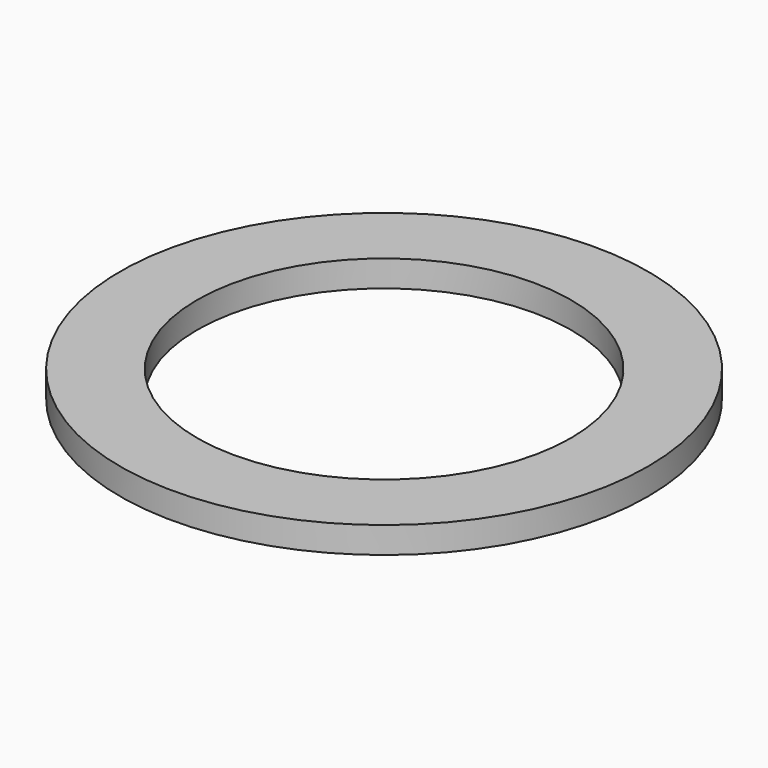
from build123d import *

# Parameters (mm, degrees)
SKETCH_R   = 12
SKETCH_R_2 = 8.5
PAD_DEPTH  = 1.2


with BuildPart() as part:
    # Sketch → Pad (new body)
    with BuildSketch(Plane.XY):
        Circle(SKETCH_R)
        Circle(SKETCH_R_2, mode=Mode.SUBTRACT)
    extrude(amount=PAD_DEPTH)


solid = part.part
